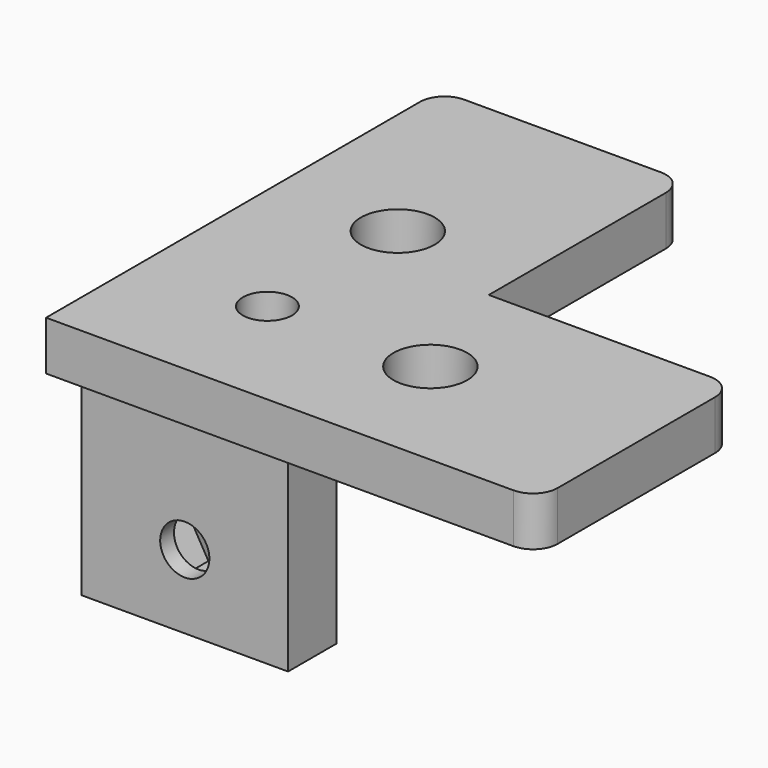
from build123d import *

# Parameters (mm, degrees)
SKETCH_W        = 16.8
SKETCH_H        = 16.8
SKETCH_R        = 2
PAD_DEPTH       = 16
SKETCH002_R     = 2
SKETCH002_R_2   = 3
PAD001_DEPTH    = 4
SKETCH003_W     = 12.4
SKETCH003_H     = 11.9
POCKET001_DEPTH = 12
SKETCH001_R     = 3.5
POCKET_DEPTH    = 4
POCKET002_DEPTH = 3.5
SKETCH005_R     = 2
POCKET003_DEPTH = 38.401
FILLET_R        = 2


with BuildPart() as part:
    # Sketch → Pad (new body)
    with BuildSketch(Plane.XY):
        Rectangle(SKETCH_W, SKETCH_H)
        Circle(SKETCH_R, mode=Mode.SUBTRACT)
    extrude(amount=PAD_DEPTH)

    # Sketch002 → Pad001 (join)
    with BuildSketch(Plane.XY.offset(16)):
        Polygon((-10, -10), (30, -10), (30, 10), (10, 10), (10, 30), (-10, 30), align=None)
        Circle(SKETCH002_R, mode=Mode.SUBTRACT)
        with Locations((0, 13.25)):
            Circle(SKETCH002_R_2, mode=Mode.SUBTRACT)
        with Locations((13.25, 0)):
            Circle(SKETCH002_R_2, mode=Mode.SUBTRACT)
    extrude(amount=PAD001_DEPTH)

    # Sketch003 → Pocket001 (cut)
    with BuildSketch(Plane.XY):
        with Locations((2.2, 2.45)):
            Rectangle(SKETCH003_W, SKETCH003_H)
    extrude(amount=POCKET001_DEPTH, mode=Mode.SUBTRACT)

    # Sketch001 (on Face5 of Pocket001) → Pocket (cut)
    with BuildSketch(Plane(origin=(0, 0, 16), x_dir=(1, 0, 0), z_dir=(0, 0, -1))):
        Circle(SKETCH001_R)
    extrude(amount=POCKET_DEPTH, mode=Mode.SUBTRACT)

    # Sketch004 (on Face7 of Pocket) → Pocket002 (cut)
    with BuildSketch(Plane(origin=(0, -3.5, 0), x_dir=(-1, 0, 0), z_dir=(0, 1, 0))):
        Polygon((4, 6), (2, 9.464102), (-2, 9.464102), (-4, 6), (-2, 2.535898), (2, 2.535898), align=None)
    extrude(amount=-POCKET002_DEPTH, mode=Mode.SUBTRACT)

    # Sketch005 (on Face1 of Pocket002) → Pocket003 (cut, through all)
    with BuildSketch(Plane.XZ.offset(8.4)):
        with Locations((0, 6)):
            Circle(SKETCH005_R)
    extrude(amount=-POCKET003_DEPTH, mode=Mode.SUBTRACT)

    # Fillet
    fillet_edges = [part.edges().sort_by_distance(p)[0] for p in [
        (-10, 30, 18),
        (10, 30, 18),
        (30, 10, 18),
        (30, -10, 18),
    ]]
    fillet(fillet_edges, radius=FILLET_R)


solid = part.part
